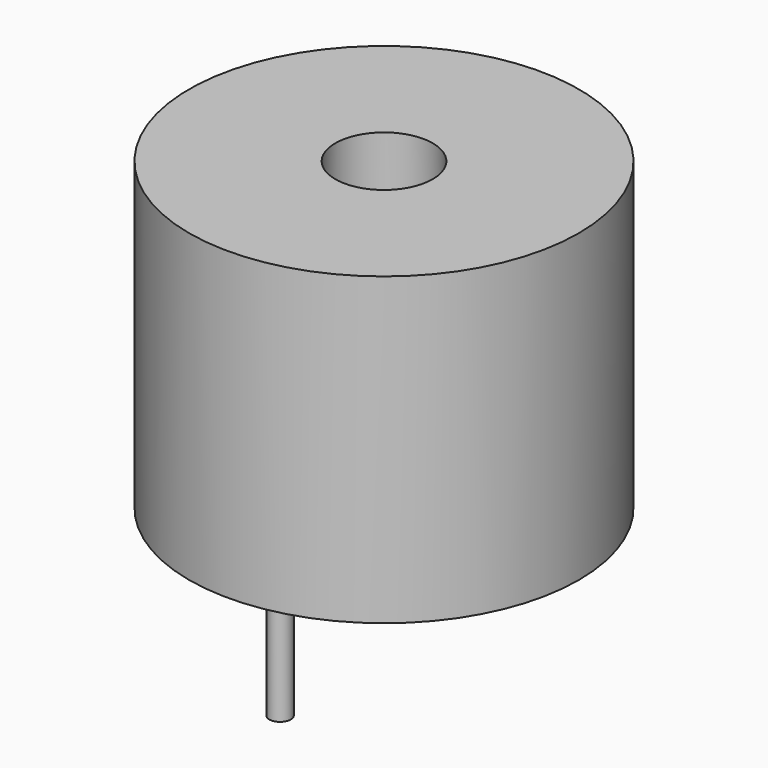
from build123d import *

# Parameters (mm, degrees)
F0_R     = 6
F1_DEPTH = 4.7
F2_R     = 1.5
F3_DEPTH = 2
F4_R     = 0.33
F5_DEPTH = 4


with BuildPart() as f1:
    # F0 (on Top) → F1 (new body, symmetric)
    with BuildSketch(Plane.XY):
        Circle(F0_R)
    extrude(amount=F1_DEPTH, both=True)

    # F2 (on face) → F3 (cut)
    with BuildSketch(Plane.XY.offset(4.7)):
        Circle(F2_R)
    extrude(amount=-F3_DEPTH, mode=Mode.SUBTRACT)

    # F4 (on face) → F5 (join)
    with BuildSketch(Plane(origin=(0, 0, -4.7), x_dir=(1, 0, 0), z_dir=(0, 0, -1))):
        with Locations((0, 4)):
            Circle(F4_R)
        with Locations((0, -4)):
            Circle(F4_R)
    extrude(amount=F5_DEPTH)


solid = f1.part
